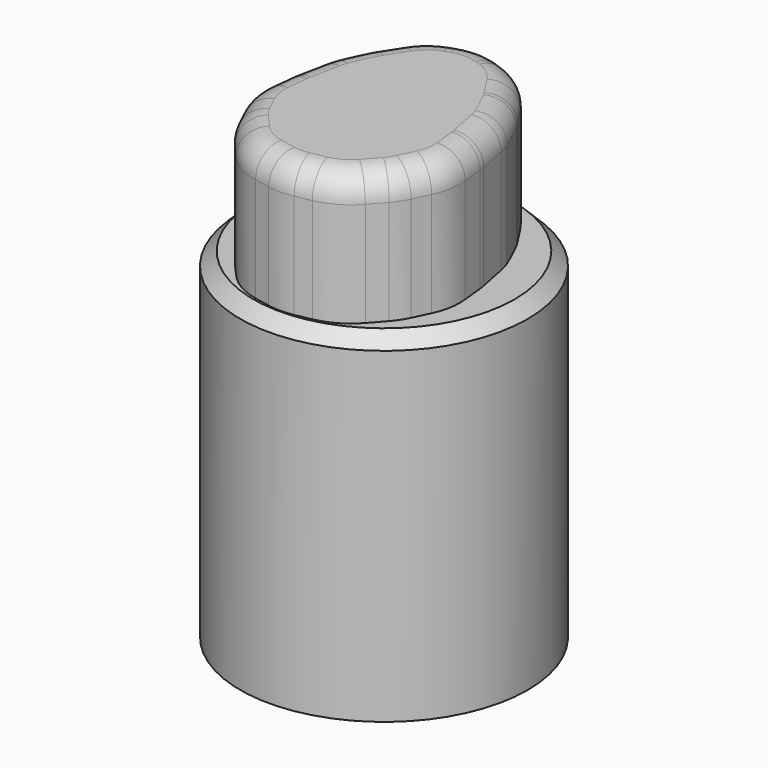
from build123d import *

# Parameters (mm, degrees)
F2_DEPTH = 36
F3_R     = 2
F4_R     = 11
F5_DEPTH = 26
F6_SIZE  = 1


with BuildPart() as f2:
    # F1 (on Top) → F2 (new body)
    with BuildSketch(Plane.XY):
        with BuildLine():
            Line((1.982116, 9.333126), (1.594405, 9.46357))
            ThreePointArc((1.594405, 9.46357), (0, 9.724596), (-1.594405, 9.46357))
            Line((-1.594405, 9.46357), (-1.982116, 9.333126))
            ThreePointArc((-1.982116, 9.333126), (-3.454217, 8.543398), (-4.584004, 7.312814))
            Line((-4.584004, 7.312814), (-5.540871, 5.835876))
            ThreePointArc((-5.540871, 5.835876), (-5.659922, 5.642646), (-5.770081, 5.444212))
            ThreePointArc((-5.770081, 5.444212), (-6.285484, 4.401197), (-6.747831, 3.333603))
            ThreePointArc((-6.747831, 3.333603), (-6.902422, 2.892031), (-7.015063, 2.437942))
            Line((-7.015063, 2.437942), (-7.456926, 0.216547))
            ThreePointArc((-7.456926, 0.216547), (-7.495184, -0.000739), (-7.523819, -0.2195))
            Line((-7.523819, -0.2195), (-7.702549, -1.866568))
            ThreePointArc((-7.702549, -1.866568), (-7.661217, -3.220061), (-7.251011, -4.510557))
            Line((-7.251011, -4.510557), (-6.664507, -5.735999))
            ThreePointArc((-6.664507, -5.735999), (-6.323741, -6.337337), (-5.903302, -6.885936))
            Line((-5.903302, -6.885936), (-4.94414, -7.972769))
            ThreePointArc((-4.94414, -7.972769), (-3.688499, -8.998323), (-2.170731, -9.568215))
            Line((-2.170731, -9.568215), (-0.975452, -9.805971))
            ThreePointArc((-0.975452, -9.805971), (0, -9.902044), (0.975452, -9.805971))
            Line((0.975452, -9.805971), (2.170731, -9.568215))
            ThreePointArc((2.170731, -9.568215), (3.688499, -8.998323), (4.94414, -7.972769))
            Line((4.94414, -7.972769), (5.903302, -6.885936))
            ThreePointArc((5.903302, -6.885936), (6.323741, -6.337337), (6.664507, -5.735999))
            Line((6.664507, -5.735999), (7.251011, -4.510557))
            ThreePointArc((7.251011, -4.510557), (7.661217, -3.220061), (7.702549, -1.866568))
            Line((7.702549, -1.866568), (7.523819, -0.2195))
            ThreePointArc((7.523819, -0.2195), (7.495184, -0.000739), (7.456926, 0.216547))
            Line((7.456926, 0.216547), (7.015063, 2.437942))
            ThreePointArc((7.015063, 2.437942), (6.902422, 2.892031), (6.747831, 3.333603))
            ThreePointArc((6.747831, 3.333603), (6.285484, 4.401197), (5.770081, 5.444212))
            ThreePointArc((5.770081, 5.444212), (5.659922, 5.642646), (5.540871, 5.835876))
            Line((5.540871, 5.835876), (4.584004, 7.312814))
            ThreePointArc((4.584004, 7.312814), (3.454217, 8.543398), (1.982116, 9.333126))
        make_face()
    extrude(amount=F2_DEPTH)

    # F3
    f3_edges = [f2.edges().sort_by_distance(p)[0] for p in [
        (3.688499, -8.998323, 36),
    ]]
    fillet(f3_edges, radius=F3_R)

    # F4 (on face) → F5 (join)
    with BuildSketch(Plane(origin=(0, 0, 0), x_dir=(1, 0, 0), z_dir=(0, 0, -1))):
        Circle(F4_R)
        with BuildLine():
            ThreePointArc((-7.702549, 1.866568), (-7.661217, 3.220061), (-7.251011, 4.510557))
            Line((-7.251011, 4.510557), (-6.664507, 5.735999))
            ThreePointArc((-6.664507, 5.735999), (-6.323741, 6.337337), (-5.903302, 6.885936))
            Line((-5.903302, 6.885936), (-4.94414, 7.972769))
            ThreePointArc((-4.94414, 7.972769), (-3.688499, 8.998323), (-2.170731, 9.568215))
            Line((-2.170731, 9.568215), (-0.975452, 9.805971))
            ThreePointArc((-0.975452, 9.805971), (0, 9.902044), (0.975452, 9.805971))
            Line((0.975452, 9.805971), (2.170731, 9.568215))
            ThreePointArc((2.170731, 9.568215), (3.688499, 8.998323), (4.94414, 7.972769))
            Line((4.94414, 7.972769), (5.903302, 6.885936))
            ThreePointArc((5.903302, 6.885936), (6.323741, 6.337337), (6.664507, 5.735999))
            Line((6.664507, 5.735999), (7.251011, 4.510557))
            ThreePointArc((7.251011, 4.510557), (7.661217, 3.220061), (7.702549, 1.866568))
            Line((7.702549, 1.866568), (7.523819, 0.2195))
            ThreePointArc((7.523819, 0.2195), (7.495184, 0.000739), (7.456926, -0.216547))
            Line((7.456926, -0.216547), (7.015063, -2.437942))
            ThreePointArc((7.015063, -2.437942), (6.902422, -2.892031), (6.747831, -3.333603))
            ThreePointArc((6.747831, -3.333603), (6.285484, -4.401197), (5.770081, -5.444212))
            ThreePointArc((5.770081, -5.444212), (5.659922, -5.642646), (5.540871, -5.835876))
            Line((5.540871, -5.835876), (4.584004, -7.312814))
            ThreePointArc((4.584004, -7.312814), (3.454217, -8.543398), (1.982116, -9.333126))
            Line((1.982116, -9.333126), (1.594405, -9.46357))
            ThreePointArc((1.594405, -9.46357), (0, -9.724596), (-1.594405, -9.46357))
            Line((-1.594405, -9.46357), (-1.982116, -9.333126))
            ThreePointArc((-1.982116, -9.333126), (-3.454217, -8.543398), (-4.584004, -7.312814))
            Line((-4.584004, -7.312814), (-5.540871, -5.835876))
            ThreePointArc((-5.540871, -5.835876), (-5.659922, -5.642646), (-5.770081, -5.444212))
            ThreePointArc((-5.770081, -5.444212), (-6.285484, -4.401197), (-6.747831, -3.333603))
            ThreePointArc((-6.747831, -3.333603), (-6.902422, -2.892031), (-7.015063, -2.437942))
            Line((-7.015063, -2.437942), (-7.456926, -0.216547))
            ThreePointArc((-7.456926, -0.216547), (-7.495184, 0.000739), (-7.523819, 0.2195))
            Line((-7.523819, 0.2195), (-7.702549, 1.866568))
        make_face(mode=Mode.SUBTRACT)
    extrude(amount=-F5_DEPTH)

    # F6
    f6_edges = [f2.edges().sort_by_distance(p)[0] for p in [
        (-11, 0, 26),
    ]]
    chamfer(f6_edges, length=F6_SIZE)


solid = f2.part
